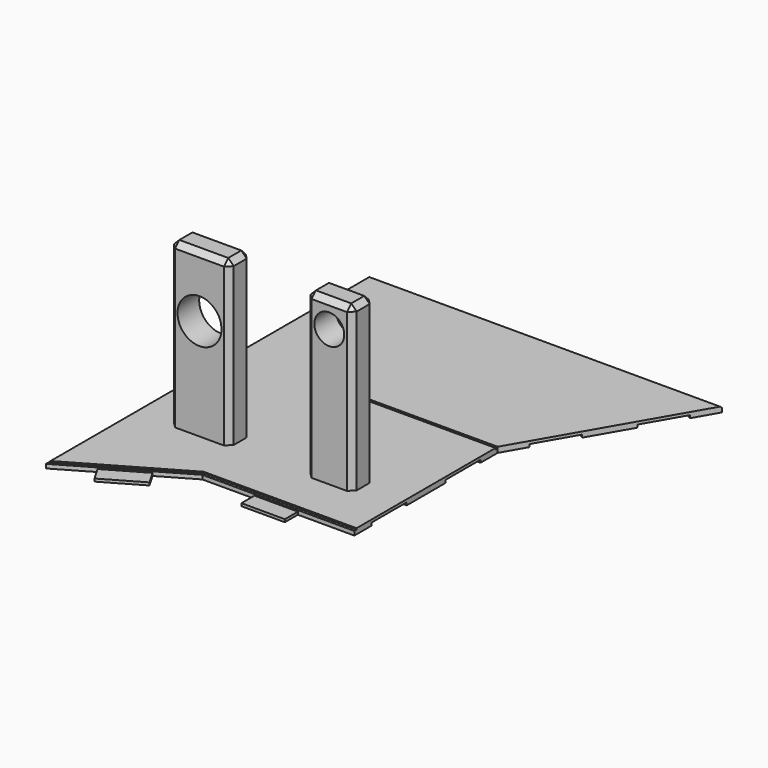
from build123d import *

# Parameters (mm, degrees)
PAD015_DEPTH    = 1
POCKET006_DEPTH = 0.25
CHAMFER003_SIZE = 0.25
POCKET007_DEPTH = 0.25
SKETCH024_W     = 3.05
SKETCH024_H     = 8.1
POCKET008_DEPTH = 0.5
SKETCH025_W     = 8
SKETCH025_H     = 3
PAD016_DEPTH    = 0.5
SKETCH026_W     = 11
SKETCH026_H     = 5
SKETCH026_W_2   = 8.5
PAD017_DEPTH    = 30
SKETCH027_R     = 4.05
SKETCH027_R_2   = 2.75
POCKET009_DEPTH = 54.281
CHAMFER004_SIZE = 1


with BuildPart() as part:
    # Sketch021 (on Face1 of Binder010) → Pad015 (new body)
    with BuildSketch(Plane(origin=(0, 0, -13), x_dir=(1, 0, 0), z_dir=(0, 0, -1))):
        Polygon((4, -110), (-13.313708499, -80.0117772123), (-13.313708499, -47.019624501), (-41.313708499, -47.019624501), (-61, -35.6537388036), (-61, -110), align=None)
    extrude(amount=-PAD015_DEPTH)

    # Sketch022 (on Face8 of Pad015) → Pocket006 (cut)
    with BuildSketch(Plane.XY.offset(-12)):
        Polygon((-13.313708499, 47.019624501), (-41.313708499, 47.019624501), (-61, 35.6537388036), (-61, 36.2310890728), (-41.4476830952, 47.519624501), (-13.313708499, 47.519624501), align=None)
    extrude(amount=-POCKET006_DEPTH, mode=Mode.SUBTRACT)

    # Chamfer003
    chamfer003_edges = [part.edges().sort_by_distance(p)[0] for p in [
        (-61, 73.115545, -12),
        (-28.5, 110, -12),
    ]]
    chamfer(chamfer003_edges, length=CHAMFER003_SIZE)

    # Sketch023 (on Face5 of Chamfer003) → Pocket007 (cut)
    with BuildSketch(Plane.XY.offset(-12)):
        Polygon((-13.313708499, 80.0117772123), (-37.1066017178, 80.0117772123), (-60.75, 103.6551754945), (-60.75, 102.9480687133), (-37.313708499, 79.5117772123), (-13.313708499, 79.5117772123), align=None)
    extrude(amount=-POCKET007_DEPTH, mode=Mode.SUBTRACT)

    # Sketch024 (on Face4 of Pocket007) → Pocket008 (cut)
    with BuildSketch(Plane(origin=(0, 0, -13), x_dir=(1, 0, 0), z_dir=(0, 0, -1))):
        with Locations((-14.838708499, -55.019624501)):
            Rectangle(SKETCH024_W, SKETCH024_H)
        with Locations((-14.838708499, -72.019624501)):
            Rectangle(SKETCH024_W, SKETCH024_H)
        Polygon((-10.838708499, -84.2986029611), (-6.788708499, -91.3134087317), (-9.4300859805, -92.8384087317), (-13.4800859805, -85.8236029611), align=None)
        Polygon((-2.525, -98.6983684806), (1.525, -105.7131742513), (-1.1163774815, -107.2381742513), (-5.1663774815, -100.2233684806), align=None)
    extrude(amount=-POCKET008_DEPTH, mode=Mode.SUBTRACT)

    # Sketch025 (on Face3 of Pocket008) → Pad016 (join)
    with BuildSketch(Plane(origin=(0, 0, -13), x_dir=(1, 0, 0), z_dir=(0, 0, -1))):
        with Locations((-27.713708499, -45.519624501)):
            Rectangle(SKETCH025_W, SKETCH025_H)
        Polygon((-47.5766062413, -43.4037388036), (-54.5048094716, -39.4037388036), (-53.0048094716, -36.8056625922), (-46.0766062413, -40.8056625922), align=None)
    extrude(amount=-PAD016_DEPTH)

    # Sketch026 (on Face28 of Pad016) → Pad017 (join)
    with BuildSketch(Plane.XY.offset(-12)):
        with Locations((-48.8, 58.22)):
            Rectangle(SKETCH026_W, SKETCH026_H)
        with Locations((-24.9, 58.22)):
            Rectangle(SKETCH026_W_2, SKETCH026_H)
    extrude(amount=PAD017_DEPTH)

    # Sketch027 (on Face45 of Pad017) → Pocket009 (cut, through all)
    with BuildSketch(Plane.XZ.offset(-55.72)):
        with Locations((-48.8, 6.7)):
            Circle(SKETCH027_R)
        with Locations((-24.9, 13.15)):
            Circle(SKETCH027_R_2)
    extrude(amount=-POCKET009_DEPTH, mode=Mode.SUBTRACT)

    # Chamfer004
    chamfer004_edges = [part.edges().sort_by_distance(p)[0] for p in [
        (-54.3, 60.72, 3),
        (-54.3, 58.22, 18),
        (-48.8, 60.72, 18),
        (-43.3, 58.22, 18),
        (-48.8, 55.72, 18),
        (-54.3, 55.72, 3),
        (-43.3, 55.72, 3),
        (-29.15, 60.72, 3),
        (-29.15, 58.22, 18),
        (-24.9, 60.72, 18),
        (-24.9, 55.72, 18),
        (-29.15, 55.72, 3),
        (-43.3, 60.72, 3),
        (-20.65, 55.72, 3),
        (-20.65, 60.72, 3),
        (-20.65, 58.22, 18),
    ]]
    chamfer(chamfer004_edges, length=CHAMFER004_SIZE)


solid = part.part
